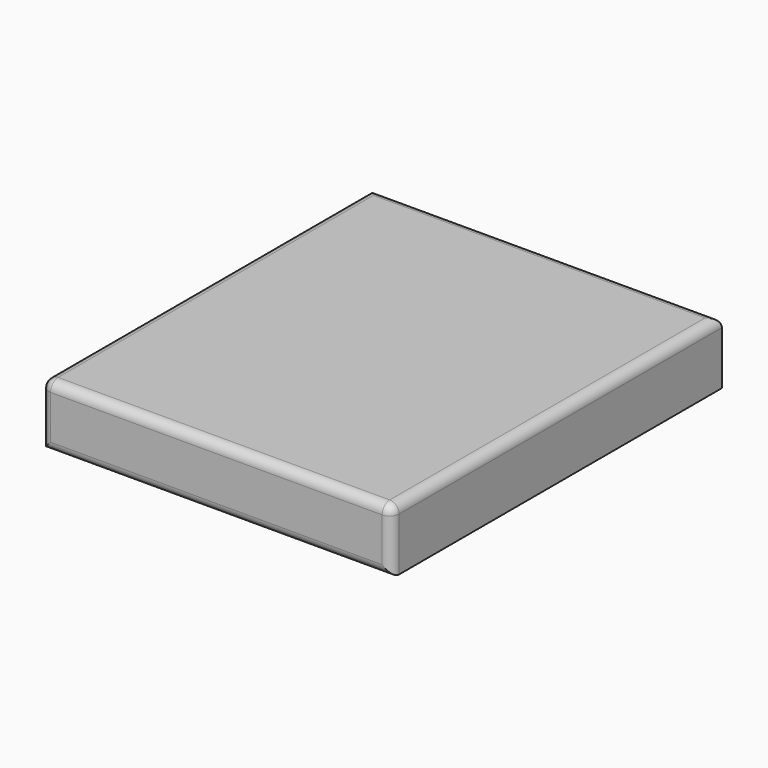
from build123d import *

# Parameters (mm, degrees)
F0_W     = 711.2
F0_H     = 838.2
F1_DEPTH = 127
F2_R     = 19.05


with BuildPart() as f1:
    # F0 (on Top) → F1 (new body)
    with BuildSketch(Plane.XY):
        Rectangle(F0_W, F0_H)
    extrude(amount=F1_DEPTH)

    # F2
    f2_edges = [f1.edges().sort_by_distance(p)[0] for p in [
        (-355.6, 0, 127),
        (0, -419.1, 127),
        (355.6, 0, 127),
        (0, 419.1, 127),
        (0, -419.1, 0),
        (355.6, -419.1, 63.5),
        (-355.6, -419.1, 63.5),
    ]]
    fillet(f2_edges, radius=F2_R)


solid = f1.part
